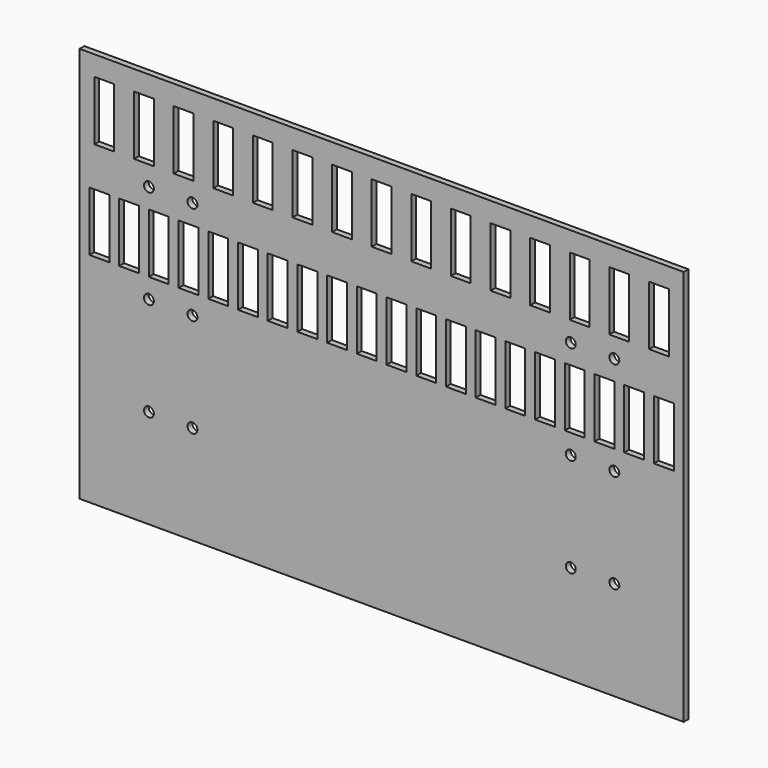
from build123d import *

# Parameters (mm, degrees)
F0_W     = 305
F0_H     = 200
F0_R     = 2.5
F0_W_2   = 10
F0_H_2   = 30
F1_DEPTH = 3


with BuildPart() as f1:
    # F0 (on Front) → F1 (new body)
    with BuildSketch(Plane.XZ):
        Rectangle(F0_W, F0_H)
        with Locations((-117.5, -50)):
            Circle(F0_R, mode=Mode.SUBTRACT)
        with Locations((-95.5, -50)):
            Circle(F0_R, mode=Mode.SUBTRACT)
        with Locations((95.5, -50)):
            Circle(F0_R, mode=Mode.SUBTRACT)
        with Locations((117.5, -50)):
            Circle(F0_R, mode=Mode.SUBTRACT)
        with Locations((-117.5, 0)):
            Circle(F0_R, mode=Mode.SUBTRACT)
        with Locations((-95.5, 0)):
            Circle(F0_R, mode=Mode.SUBTRACT)
        with Locations((-142.5, 25)):
            Rectangle(F0_W_2, F0_H_2, mode=Mode.SUBTRACT)
        with Locations((-127.5, 25)):
            Rectangle(F0_W_2, F0_H_2, mode=Mode.SUBTRACT)
        with Locations((-112.5, 25)):
            Rectangle(F0_W_2, F0_H_2, mode=Mode.SUBTRACT)
        with Locations((-97.5, 25)):
            Rectangle(F0_W_2, F0_H_2, mode=Mode.SUBTRACT)
        with Locations((-82.5, 25)):
            Rectangle(F0_W_2, F0_H_2, mode=Mode.SUBTRACT)
        with Locations((-67.5, 25)):
            Rectangle(F0_W_2, F0_H_2, mode=Mode.SUBTRACT)
        with Locations((-52.5, 25)):
            Rectangle(F0_W_2, F0_H_2, mode=Mode.SUBTRACT)
        with Locations((-37.5, 25)):
            Rectangle(F0_W_2, F0_H_2, mode=Mode.SUBTRACT)
        with Locations((-22.5, 25)):
            Rectangle(F0_W_2, F0_H_2, mode=Mode.SUBTRACT)
        with Locations((-7.5, 25)):
            Rectangle(F0_W_2, F0_H_2, mode=Mode.SUBTRACT)
        with Locations((-117.5, 50)):
            Circle(F0_R, mode=Mode.SUBTRACT)
        with Locations((-95.5, 50)):
            Circle(F0_R, mode=Mode.SUBTRACT)
        with Locations((-140, 75)):
            Rectangle(F0_W_2, F0_H_2, mode=Mode.SUBTRACT)
        with Locations((-120, 75)):
            Rectangle(F0_W_2, F0_H_2, mode=Mode.SUBTRACT)
        with Locations((-100, 75)):
            Rectangle(F0_W_2, F0_H_2, mode=Mode.SUBTRACT)
        with Locations((-80, 75)):
            Rectangle(F0_W_2, F0_H_2, mode=Mode.SUBTRACT)
        with Locations((-60, 75)):
            Rectangle(F0_W_2, F0_H_2, mode=Mode.SUBTRACT)
        with Locations((-40, 75)):
            Rectangle(F0_W_2, F0_H_2, mode=Mode.SUBTRACT)
        with Locations((-20, 75)):
            Rectangle(F0_W_2, F0_H_2, mode=Mode.SUBTRACT)
        with Locations((7.5, 25)):
            Rectangle(F0_W_2, F0_H_2, mode=Mode.SUBTRACT)
        with Locations((22.5, 25)):
            Rectangle(F0_W_2, F0_H_2, mode=Mode.SUBTRACT)
        with Locations((37.5, 25)):
            Rectangle(F0_W_2, F0_H_2, mode=Mode.SUBTRACT)
        with Locations((52.5, 25)):
            Rectangle(F0_W_2, F0_H_2, mode=Mode.SUBTRACT)
        with Locations((67.5, 25)):
            Rectangle(F0_W_2, F0_H_2, mode=Mode.SUBTRACT)
        with Locations((95.5, 0)):
            Circle(F0_R, mode=Mode.SUBTRACT)
        with Locations((117.5, 0)):
            Circle(F0_R, mode=Mode.SUBTRACT)
        with Locations((82.5, 25)):
            Rectangle(F0_W_2, F0_H_2, mode=Mode.SUBTRACT)
        with Locations((97.5, 25)):
            Rectangle(F0_W_2, F0_H_2, mode=Mode.SUBTRACT)
        with Locations((112.5, 25)):
            Rectangle(F0_W_2, F0_H_2, mode=Mode.SUBTRACT)
        with Locations((127.5, 25)):
            Rectangle(F0_W_2, F0_H_2, mode=Mode.SUBTRACT)
        with Locations((142.5, 25)):
            Rectangle(F0_W_2, F0_H_2, mode=Mode.SUBTRACT)
        with Locations((0, 75)):
            Rectangle(F0_W_2, F0_H_2, mode=Mode.SUBTRACT)
        with Locations((20, 75)):
            Rectangle(F0_W_2, F0_H_2, mode=Mode.SUBTRACT)
        with Locations((40, 75)):
            Rectangle(F0_W_2, F0_H_2, mode=Mode.SUBTRACT)
        with Locations((60, 75)):
            Rectangle(F0_W_2, F0_H_2, mode=Mode.SUBTRACT)
        with Locations((95.5, 50)):
            Circle(F0_R, mode=Mode.SUBTRACT)
        with Locations((117.5, 50)):
            Circle(F0_R, mode=Mode.SUBTRACT)
        with Locations((80, 75)):
            Rectangle(F0_W_2, F0_H_2, mode=Mode.SUBTRACT)
        with Locations((100, 75)):
            Rectangle(F0_W_2, F0_H_2, mode=Mode.SUBTRACT)
        with Locations((120, 75)):
            Rectangle(F0_W_2, F0_H_2, mode=Mode.SUBTRACT)
        with Locations((140, 75)):
            Rectangle(F0_W_2, F0_H_2, mode=Mode.SUBTRACT)
    extrude(amount=F1_DEPTH)


solid = f1.part
